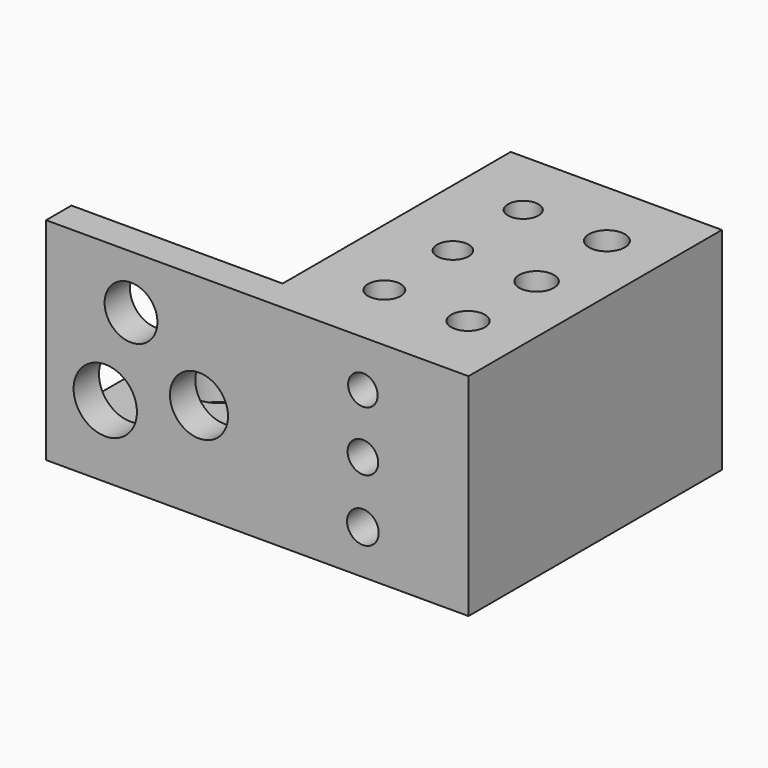
from build123d import *

# Parameters (mm, degrees)
F0_W     = 20
F0_H     = 27
F0_R     = 3
F0_R_2   = 2.75
F0_R_3   = 2.5
F1_DEPTH = 3
F0_R_4   = 1.55
F0_R_5   = 1.6
F0_R_6   = 1.5
F0_R_7   = 1.65
F0_R_8   = 1.45
F0_R_9   = 1.7
F2_DEPTH = 20
F0_H_2   = 3
F3_DEPTH = 20
F4_R     = 1.4
F4_R_2   = 1.45
F4_R_3   = 1.5
F4_R_4   = 2.75
F4_R_5   = 2.5
F4_R_6   = 3
F5_DEPTH = 30


with BuildPart() as f1:
    # F0 (on Top) → F1 (new body)
    with BuildSketch(Plane.XY):
        with Locations((-10, 1.5)):
            Rectangle(F0_W, F0_H)
        with Locations((-13.873821, -1.985078)):
            Circle(F0_R, mode=Mode.SUBTRACT)
        with Locations((-5.548216, 2.859571)):
            Circle(F0_R_2, mode=Mode.SUBTRACT)
        with Locations((-13.873821, 8.230659)):
            Circle(F0_R_3, mode=Mode.SUBTRACT)
    extrude(amount=F1_DEPTH)

    # F0 (on Top) → F2 (join)
    with BuildSketch(Plane.XY):
        Polygon((0, -15), (20, -15), (20, 15), (0, 15), (0, -12), align=None)
        with Locations((6.521292, -8.111834)):
            Circle(F0_R_4, mode=Mode.SUBTRACT)
        with Locations((14.447207, -8.111834)):
            Circle(F0_R_5, mode=Mode.SUBTRACT)
        with Locations((6.521292, 0)):
            Circle(F0_R_6, mode=Mode.SUBTRACT)
        with Locations((14.447207, 0)):
            Circle(F0_R_7, mode=Mode.SUBTRACT)
        with Locations((6.521292, 8.330117)):
            Circle(F0_R_8, mode=Mode.SUBTRACT)
        with Locations((14.447207, 8.330117)):
            Circle(F0_R_9, mode=Mode.SUBTRACT)
    extrude(amount=F2_DEPTH)

    # F0 (on Top) → F3 (join, through all)
    with BuildSketch(Plane.XY):
        with Locations((-10, -13.5)):
            Rectangle(F0_W, F0_H_2)
    extrude(amount=F3_DEPTH)

    # F4 (on face) → F5 (cut, through all)
    with BuildSketch(Plane.XZ.offset(15)):
        with Locations((10, 15.604385)):
            Circle(F4_R)
        with Locations((10, 10)):
            Circle(F4_R_2)
        with Locations((10, 4.171362)):
            Circle(F4_R_3)
        with Locations((-5.521618, 9.25734)):
            Circle(F4_R_4)
        with Locations((-11.956942, 14.9168)):
            Circle(F4_R_5)
        with Locations((-14.395144, 6.801534)):
            Circle(F4_R_6)
    extrude(amount=-F5_DEPTH, mode=Mode.SUBTRACT)


solid = f1.part
